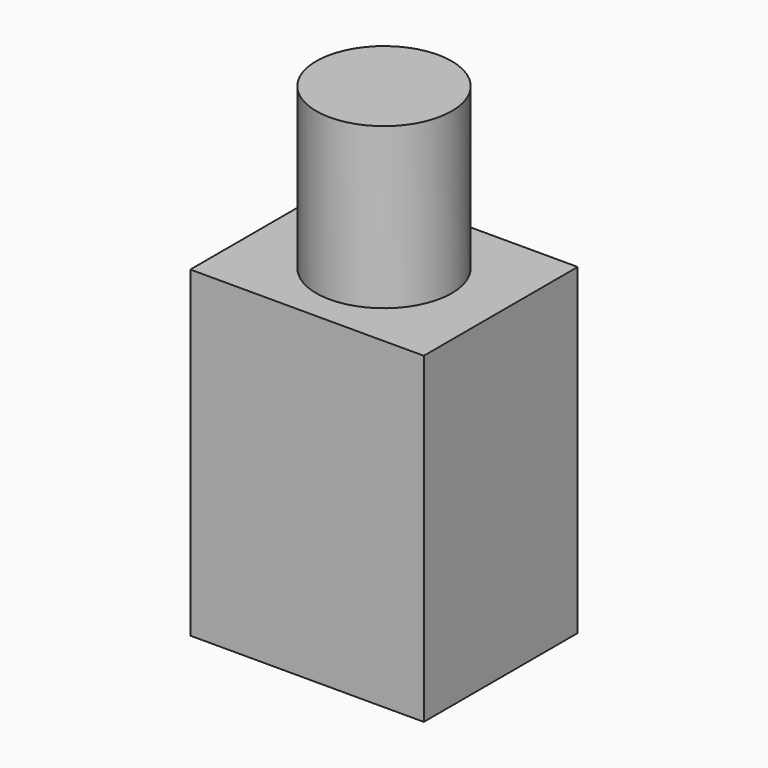
from build123d import *

# Parameters (mm, degrees)
F1_DEPTH = 30
F2_R     = 10.563438
F3_DEPTH = 25


with BuildPart() as f1:
    # F0 (on Front) → F1 (new body)
    with BuildSketch(Plane.XZ):
        Polygon((0, 50.266817), (0, 0), (6.763435, 0), (36.40743, 0), (36.40743, 50.266817), align=None)
    extrude(amount=F1_DEPTH)

    # F2 (on face) → F3 (join)
    with BuildSketch(Plane.XY.offset(50.266817)):
        with Locations((18.203715, -15)):
            Circle(F2_R)
    extrude(amount=F3_DEPTH)


solid = f1.part
